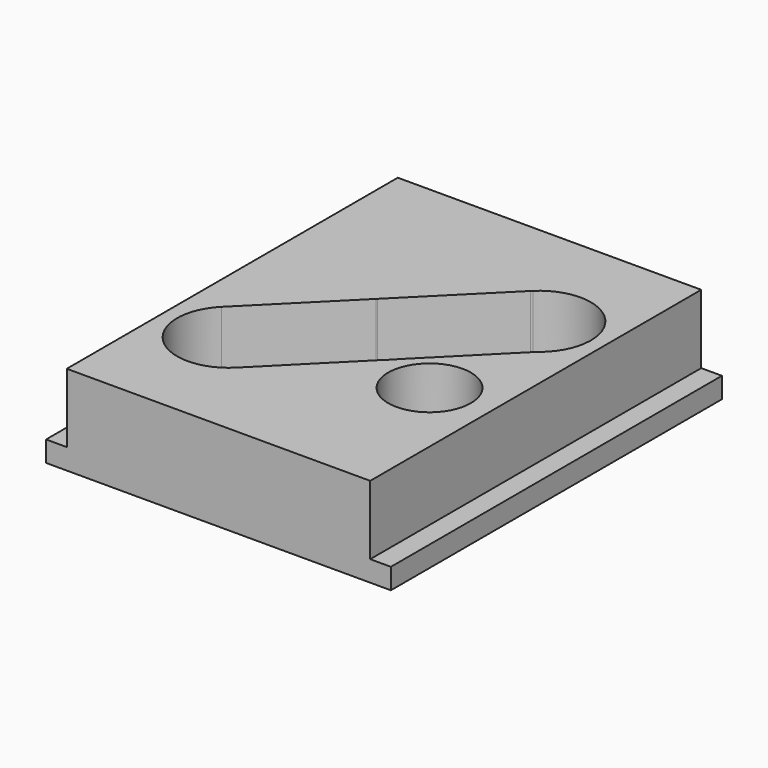
from build123d import *

# Parameters (mm, degrees)
F0_W     = 50
F0_H     = 60
F0_R     = 6
F1_DEPTH = 13
F2_W     = 3
F2_H     = 60
F3_DEPTH = 10


with BuildPart() as f1:
    # F0 (on Top) → F1 (new body)
    with BuildSketch(Plane.XY):
        Rectangle(F0_W, F0_H)
        with Locations((13, -8)):
            Circle(F0_R, mode=Mode.SUBTRACT)
        with BuildLine():
            ThreePointArc((5.824037, -4.725525), (5.314884, -5.291693), (4.750949, -5.803317))
            Line((4.750949, -5.803317), (-7.185116, -17.791693))
            ThreePointArc((-7.185116, -17.791693), (-17.79758, -17.809016), (-17.803141, -7.196539))
            Line((-17.803141, -7.196539), (-5.365959, 5.239893))
            ThreePointArc((-5.365959, 5.239893), (-5.303141, 5.303461), (-5.23957, 5.366275))
            Line((-5.23957, 5.366275), (7.108243, 17.713344))
            ThreePointArc((7.108243, 17.713344), (7.196859, 17.803461), (7.286981, 17.892071))
            ThreePointArc((7.286981, 17.892071), (17.450432, 18.134113), (18.517909, 8.023979))
            ThreePointArc((18.517909, 8.023979), (17.814884, 7.208307), (17.002295, 6.501722))
            Line((17.002295, 6.501722), (5.824037, -4.725525))
        make_face(mode=Mode.SUBTRACT)
    extrude(amount=F1_DEPTH)

    # F2 (on face) → F3 (cut)
    with BuildSketch(Plane.XY.offset(13)):
        with Locations((-23.5, 0)):
            Rectangle(F2_W, F2_H)
        with Locations((23.5, 0)):
            Rectangle(F2_W, F2_H)
    extrude(amount=-F3_DEPTH, mode=Mode.SUBTRACT)


solid = f1.part
